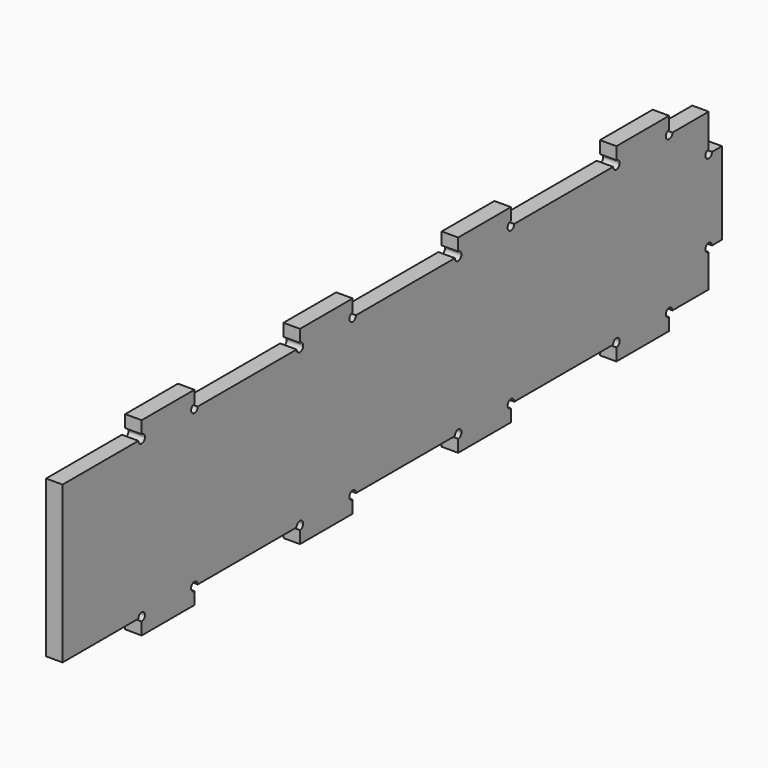
from build123d import *

# Parameters (mm, degrees)
F1_DEPTH = 6.35


with BuildPart() as f1:
    # F0 (on Right) → F1 (new body)
    with BuildSketch(Plane.YZ):
        with BuildLine():
            Line((-77.7875, 34.144226), (-100.0125, 34.144226))
            ThreePointArc((-100.0125, 34.144226), (-101.6, 32.556726), (-103.1875, 34.144226))
            Line((-103.1875, 34.144226), (-139.7, 34.144226))
            Line((-139.7, 34.144226), (-139.7, -26.180774))
            Line((-139.7, -26.180774), (-103.1875, -26.180774))
            ThreePointArc((-103.1875, -26.180774), (-101.6, -24.593274), (-100.0125, -26.180774))
            Line((-100.0125, -26.180774), (-77.7875, -26.180774))
            ThreePointArc((-77.7875, -26.180774), (-76.2, -24.593274), (-74.6125, -26.180774))
            Line((-74.6125, -26.180774), (-26.9875, -26.180774))
            ThreePointArc((-26.9875, -26.180774), (-25.4, -24.593274), (-23.8125, -26.180774))
            Line((-23.8125, -26.180774), (-1.5875, -26.180774))
            ThreePointArc((-1.5875, -26.180774), (0, -24.593274), (1.5875, -26.180774))
            Line((1.5875, -26.180774), (49.2125, -26.180774))
            ThreePointArc((49.2125, -26.180774), (50.8, -24.593274), (52.3875, -26.180774))
            Line((52.3875, -26.180774), (74.6125, -26.180774))
            ThreePointArc((74.6125, -26.180774), (76.2, -24.593274), (77.7875, -26.180774))
            Line((77.7875, -26.180774), (125.4125, -26.180774))
            ThreePointArc((125.4125, -26.180774), (127, -24.593274), (128.5875, -26.180774))
            Line((128.5875, -26.180774), (150.8125, -26.180774))
            ThreePointArc((150.8125, -26.180774), (152.4, -24.593274), (153.9875, -26.180774))
            Line((153.9875, -26.180774), (171.45, -26.180774))
            Line((171.45, -26.180774), (171.45, -13.480774))
            ThreePointArc((171.45, -13.480774), (169.8625, -11.893274), (171.45, -10.305774))
            Line((171.45, -10.305774), (171.45, 18.269226))
            ThreePointArc((171.45, 18.269226), (169.8625, 19.856726), (171.45, 21.444226))
            Line((171.45, 21.444226), (171.45, 34.144226))
            Line((171.45, 34.144226), (153.9875, 34.144226))
            ThreePointArc((153.9875, 34.144226), (152.4, 32.556726), (150.8125, 34.144226))
            Line((150.8125, 34.144226), (128.5875, 34.144226))
            ThreePointArc((128.5875, 34.144226), (127, 32.556726), (125.4125, 34.144226))
            Line((125.4125, 34.144226), (77.7875, 34.144226))
            ThreePointArc((77.7875, 34.144226), (76.2, 32.556726), (74.6125, 34.144226))
            Line((74.6125, 34.144226), (52.3875, 34.144226))
            ThreePointArc((52.3875, 34.144226), (50.8, 32.556726), (49.2125, 34.144226))
            Line((49.2125, 34.144226), (1.5875, 34.144226))
            ThreePointArc((1.5875, 34.144226), (0, 32.556726), (-1.5875, 34.144226))
            Line((-1.5875, 34.144226), (-23.8125, 34.144226))
            ThreePointArc((-23.8125, 34.144226), (-25.4, 32.556726), (-26.9875, 34.144226))
            Line((-26.9875, 34.144226), (-74.6125, 34.144226))
            ThreePointArc((-74.6125, 34.144226), (-76.2, 32.556726), (-77.7875, 34.144226))
        make_face()
        with BuildLine():
            ThreePointArc((-101.6, 35.731726), (-100.477468, 35.266758), (-100.0125, 34.144226))
            Line((-100.0125, 34.144226), (-77.7875, 34.144226))
            ThreePointArc((-77.7875, 34.144226), (-77.322532, 35.266758), (-76.2, 35.731726))
            Line((-76.2, 35.731726), (-76.2, 40.494226))
            Line((-76.2, 40.494226), (-101.6, 40.494226))
            Line((-101.6, 40.494226), (-101.6, 35.731726))
        make_face()
        with BuildLine():
            Line((-25.4, 40.494226), (-25.4, 35.731726))
            ThreePointArc((-25.4, 35.731726), (-24.277468, 35.266758), (-23.8125, 34.144226))
            Line((-23.8125, 34.144226), (-1.5875, 34.144226))
            ThreePointArc((-1.5875, 34.144226), (-1.122532, 35.266758), (0, 35.731726))
            Line((0, 35.731726), (0, 40.494226))
            Line((0, 40.494226), (-25.4, 40.494226))
        make_face()
        with BuildLine():
            Line((50.8, 40.494226), (50.8, 35.731726))
            ThreePointArc((50.8, 35.731726), (51.922532, 35.266758), (52.3875, 34.144226))
            Line((52.3875, 34.144226), (74.6125, 34.144226))
            ThreePointArc((74.6125, 34.144226), (75.077468, 35.266758), (76.2, 35.731726))
            Line((76.2, 35.731726), (76.2, 40.494226))
            Line((76.2, 40.494226), (50.8, 40.494226))
        make_face()
        with BuildLine():
            Line((127, 40.494226), (127, 35.731726))
            ThreePointArc((127, 35.731726), (128.122532, 35.266758), (128.5875, 34.144226))
            Line((128.5875, 34.144226), (150.8125, 34.144226))
            ThreePointArc((150.8125, 34.144226), (151.277468, 35.266758), (152.4, 35.731726))
            Line((152.4, 35.731726), (152.4, 40.494226))
            Line((152.4, 40.494226), (127, 40.494226))
        make_face()
        with BuildLine():
            Line((177.8, 19.856726), (173.0375, 19.856726))
            ThreePointArc((173.0375, 19.856726), (172.572532, 18.734194), (171.45, 18.269226))
            Line((171.45, 18.269226), (171.45, -10.305774))
            ThreePointArc((171.45, -10.305774), (172.572532, -10.770742), (173.0375, -11.893274))
            Line((173.0375, -11.893274), (177.8, -11.893274))
            Line((177.8, -11.893274), (177.8, 19.856726))
        make_face()
        with BuildLine():
            Line((150.8125, -26.180774), (128.5875, -26.180774))
            ThreePointArc((128.5875, -26.180774), (128.122532, -27.303306), (127, -27.768274))
            Line((127, -27.768274), (127, -32.530774))
            Line((127, -32.530774), (152.4, -32.530774))
            Line((152.4, -32.530774), (152.4, -27.768274))
            ThreePointArc((152.4, -27.768274), (151.277468, -27.303306), (150.8125, -26.180774))
        make_face()
        with BuildLine():
            Line((74.6125, -26.180774), (52.3875, -26.180774))
            ThreePointArc((52.3875, -26.180774), (51.922532, -27.303306), (50.8, -27.768274))
            Line((50.8, -27.768274), (50.8, -32.530774))
            Line((50.8, -32.530774), (76.2, -32.530774))
            Line((76.2, -32.530774), (76.2, -27.768274))
            ThreePointArc((76.2, -27.768274), (75.077468, -27.303306), (74.6125, -26.180774))
        make_face()
        with BuildLine():
            Line((-1.5875, -26.180774), (-23.8125, -26.180774))
            ThreePointArc((-23.8125, -26.180774), (-24.277468, -27.303306), (-25.4, -27.768274))
            Line((-25.4, -27.768274), (-25.4, -32.530774))
            Line((-25.4, -32.530774), (0, -32.530774))
            Line((0, -32.530774), (0, -27.768274))
            ThreePointArc((0, -27.768274), (-1.122532, -27.303306), (-1.5875, -26.180774))
        make_face()
        with BuildLine():
            Line((-77.7875, -26.180774), (-100.0125, -26.180774))
            ThreePointArc((-100.0125, -26.180774), (-100.477468, -27.303306), (-101.6, -27.768274))
            Line((-101.6, -27.768274), (-101.6, -32.530774))
            Line((-101.6, -32.530774), (-76.2, -32.530774))
            Line((-76.2, -32.530774), (-76.2, -27.768274))
            ThreePointArc((-76.2, -27.768274), (-77.322532, -27.303306), (-77.7875, -26.180774))
        make_face()
    extrude(amount=F1_DEPTH)


solid = f1.part
